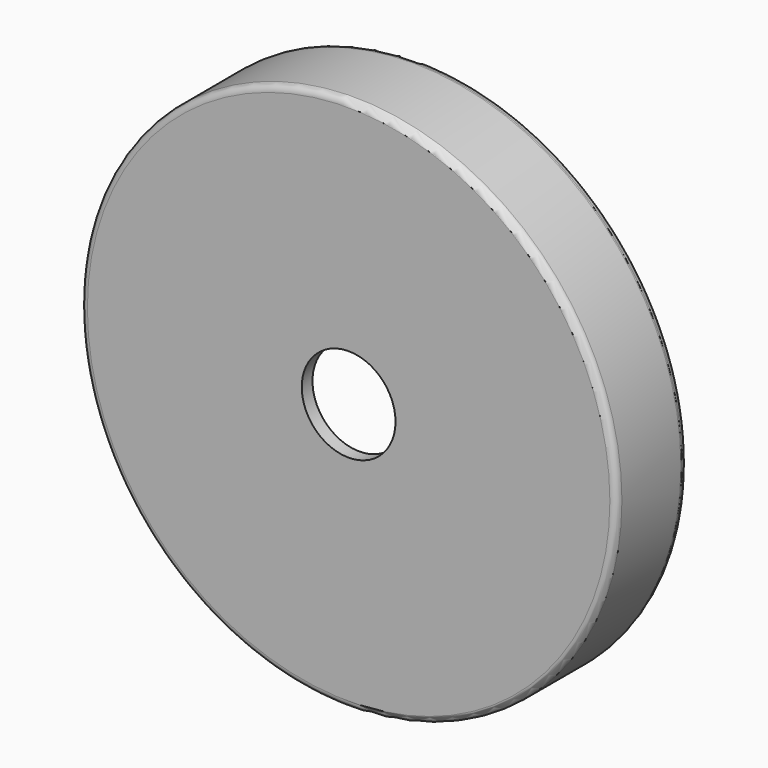
from build123d import *

# Parameters (mm, degrees)
F0_R          = 100
F1_DEPTH      = 15
F1_DEPTH_BACK = 15
F2_R          = 96.202365
F3_DEPTH      = 25
F4_R          = 2.5
F5_R          = 2.5
F6_R          = 17.5
F7_DEPTH      = 30.001
F8_R          = 100
F8_R_2        = 93.75
F9_DEPTH      = 3
F10_R         = 2.5


with BuildPart() as f1:
    # F0 (on Front) → F1 (new body, two sides)
    with BuildSketch(Plane.XZ) as f1_sk:
        Circle(F0_R)
    extrude(amount=F1_DEPTH)
    extrude(f1_sk.sketch, amount=-F1_DEPTH_BACK)

    # F2 (on face) → F3 (cut)
    with BuildSketch(Plane(origin=(0, 15, 0), x_dir=(-1, 0, 0), z_dir=(0, 1, 0))):
        Circle(F2_R)
    extrude(amount=-F3_DEPTH, mode=Mode.SUBTRACT)

    # F4
    f4_edges = [f1.edges().sort_by_distance(p)[0] for p in [
        (96.202365, -10, 0),
    ]]
    fillet(f4_edges, radius=F4_R)

    # F5
    f5_edges = [f1.edges().sort_by_distance(p)[0] for p in [
        (-100, -15, 0),
    ]]
    fillet(f5_edges, radius=F5_R)

    # F6 (on face) → F7 (cut, through all)
    with BuildSketch(Plane.XZ.offset(15)):
        Circle(F6_R)
    extrude(amount=-F7_DEPTH, mode=Mode.SUBTRACT)

    # F8 (on face) → F9 (join)
    with BuildSketch(Plane(origin=(0, 15, 0), x_dir=(-1, 0, 0), z_dir=(0, 1, 0))):
        Circle(F8_R)
        Circle(F8_R_2, mode=Mode.SUBTRACT)
    extrude(amount=F9_DEPTH)

    # F10
    f10_edges = [f1.edges().sort_by_distance(p)[0] for p in [
        (100, 18, 0),
    ]]
    fillet(f10_edges, radius=F10_R)


solid = f1.part
